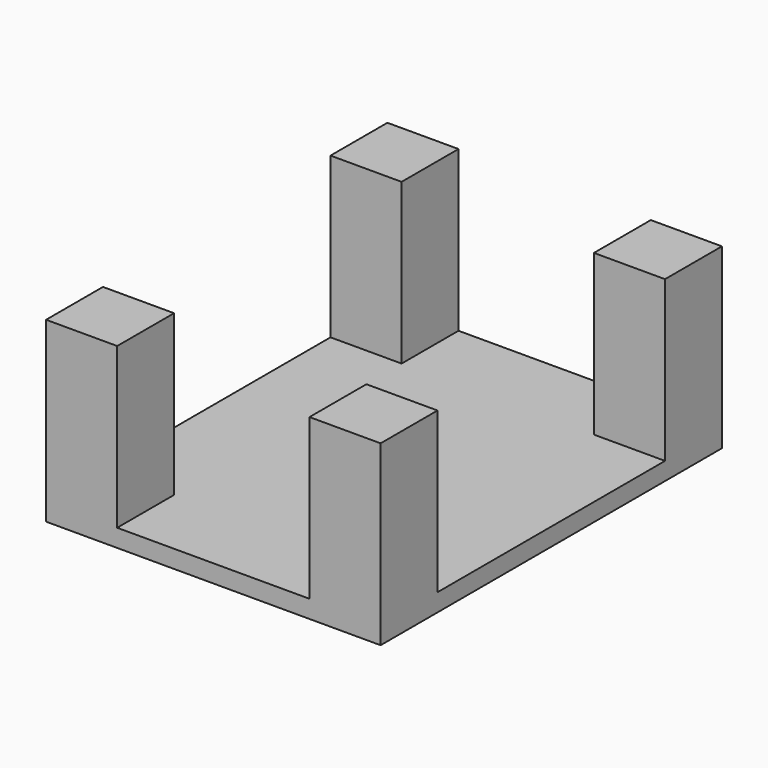
from build123d import *

# Parameters (mm, degrees)
F0_W     = 12.7
F0_H     = 12.7
F1_DEPTH = 3.175
F2_DEPTH = 31.75


with BuildPart() as f1:
    # F0 (on Top) → F1 (new body)
    with BuildSketch(Plane.XY):
        with Locations((-29.940906, 29.440909)):
            Rectangle(F0_W, F0_H)
        Polygon((-36.290906, 23.090909), (-36.290906, -27.709091), (-23.590906, -27.709091), (-23.590906, -40.409091), (10.759089, -40.409091), (10.759089, -27.709091), (23.459089, -27.709091), (23.459089, 23.090909), (10.759089, 23.090909), (10.759089, 35.790909), (-23.590906, 35.790909), (-23.590906, 23.090909), align=None)
        with Locations((17.109089, 29.440909)):
            Rectangle(F0_W, F0_H)
        with Locations((17.109089, -34.059091)):
            Rectangle(F0_W, F0_H)
        with Locations((-29.940906, -34.059091)):
            Rectangle(F0_W, F0_H)
    extrude(amount=F1_DEPTH)

    # F0 (on Top) → F2 (join)
    with BuildSketch(Plane.XY):
        with Locations((-29.940906, 29.440909)):
            Rectangle(F0_W, F0_H)
        with Locations((17.109089, 29.440909)):
            Rectangle(F0_W, F0_H)
        with Locations((-29.940906, -34.059091)):
            Rectangle(F0_W, F0_H)
        with Locations((17.109089, -34.059091)):
            Rectangle(F0_W, F0_H)
    extrude(amount=F2_DEPTH)


solid = f1.part
